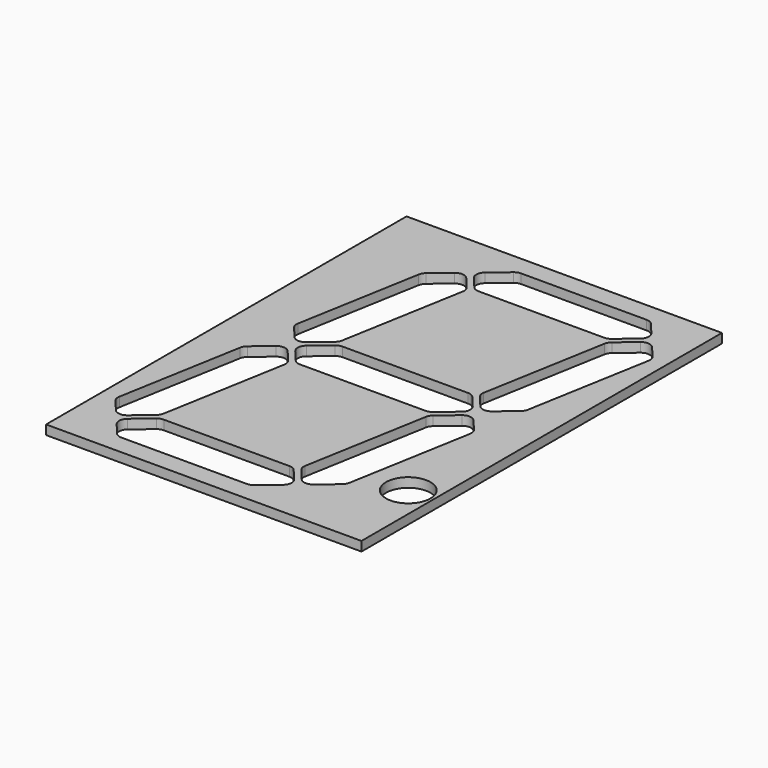
from build123d import *

# Parameters (mm, degrees)
F0_W     = 106.68
F0_H     = 152.4
F1_DEPTH = 3.175
F2_R     = 7.5
F3_DEPTH = 3.176


with BuildPart() as f1:
    # F0 (on Top) → F1 (new body)
    with BuildSketch(Plane.XY):
        Rectangle(F0_W, F0_H)
    extrude(amount=F1_DEPTH)

    # F2 (on face) → F3 (cut, through all)
    with BuildSketch(Plane.XY.offset(3.175)):
        with BuildLine():
            Line((-32.719586, -55.33588), (-38.523153, -60.20565))
            ThreePointArc((-38.523153, -60.20565), (-39.583374, -62.242316), (-38.892923, -64.432146))
            Line((-38.892923, -64.432146), (-35.427249, -68.562376))
            ThreePointArc((-35.427249, -68.562376), (-34.396971, -69.352936), (-33.129116, -69.634013))
            Line((-33.129116, -69.634013), (9.380051, -69.634013))
            ThreePointArc((9.380051, -69.634013), (10.406111, -69.453091), (11.308413, -68.932146))
            Line((11.308413, -68.932146), (17.11198, -64.062376))
            ThreePointArc((17.11198, -64.062376), (18.172201, -62.02571), (17.48175, -59.83588))
            Line((17.48175, -59.83588), (14.016076, -55.70565))
            ThreePointArc((14.016076, -55.70565), (12.985798, -54.91509), (11.717943, -54.634013))
            Line((11.717943, -54.634013), (-30.791223, -54.634013))
            ThreePointArc((-30.791223, -54.634013), (-31.817284, -54.814935), (-32.719586, -55.33588))
        make_face()
        with BuildLine():
            ThreePointArc((-44.035224, -58.303791), (-41.998558, -59.364012), (-39.808728, -58.673561))
            Line((-39.808728, -58.673561), (-34.005161, -53.803791))
            ThreePointArc((-34.005161, -53.803791), (-33.335448, -53.005657), (-32.979101, -52.026602))
            Line((-32.979101, -52.026602), (-25.597462, -10.163245))
            ThreePointArc((-25.597462, -10.163245), (-25.654107, -8.865844), (-26.253752, -7.713938))
            Line((-26.253752, -7.713938), (-29.719426, -3.583709))
            ThreePointArc((-29.719426, -3.583709), (-31.756092, -2.523487), (-33.945922, -3.213938))
            Line((-33.945922, -3.213938), (-39.749488, -8.083709))
            ThreePointArc((-39.749488, -8.083709), (-40.419202, -8.881842), (-40.775549, -9.860897))
            Line((-40.775549, -9.860897), (-48.157188, -51.724254))
            ThreePointArc((-48.157188, -51.724254), (-48.100542, -53.021656), (-47.500898, -54.173561))
            Line((-47.500898, -54.173561), (-44.035224, -58.303791))
        make_face()
        with BuildLine():
            ThreePointArc((14.891875, -51.970768), (14.948521, -53.268169), (15.548165, -54.420075))
            Line((15.548165, -54.420075), (19.013839, -58.550304))
            ThreePointArc((19.013839, -58.550304), (21.050505, -59.610526), (23.240335, -58.920075))
            Line((23.240335, -58.920075), (29.043902, -54.050304))
            ThreePointArc((29.043902, -54.050304), (29.713615, -53.252171), (30.069962, -52.273116))
            Line((30.069962, -52.273116), (37.451602, -10.409759))
            ThreePointArc((37.451602, -10.409759), (37.394956, -9.112357), (36.795312, -7.960452))
            Line((36.795312, -7.960452), (33.329638, -3.830222))
            ThreePointArc((33.329638, -3.830222), (31.292972, -2.770001), (29.103141, -3.460452))
            Line((29.103141, -3.460452), (23.299575, -8.330222))
            ThreePointArc((23.299575, -8.330222), (22.629862, -9.128356), (22.273515, -10.107411))
            Line((22.273515, -10.107411), (14.891875, -51.970768))
        make_face()
        with BuildLine():
            ThreePointArc((-27.817566, 1.928363), (-28.877788, -0.108303), (-28.187337, -2.298133))
            Line((-28.187337, -2.298133), (-24.721663, -6.428363))
            ThreePointArc((-24.721663, -6.428363), (-23.691384, -7.218923), (-22.423529, -7.5))
            Line((-22.423529, -7.5), (20.085637, -7.5))
            ThreePointArc((20.085637, -7.5), (21.111697, -7.319078), (22.014, -6.798133))
            Line((22.014, -6.798133), (27.817566, -1.928363))
            ThreePointArc((27.817566, -1.928363), (28.877788, 0.108303), (28.187337, 2.298133))
            Line((28.187337, 2.298133), (24.721663, 6.428363))
            ThreePointArc((24.721663, 6.428363), (23.691384, 7.218923), (22.423529, 7.5))
            Line((22.423529, 7.5), (-20.085637, 7.5))
            ThreePointArc((-20.085637, 7.5), (-21.111697, 7.319078), (-22.014, 6.798133))
            Line((-22.014, 6.798133), (-27.817566, 1.928363))
        make_face()
        with BuildLine():
            ThreePointArc((-33.329638, 3.830222), (-31.292972, 2.770001), (-29.103141, 3.460452))
            Line((-29.103141, 3.460452), (-23.299575, 8.330222))
            ThreePointArc((-23.299575, 8.330222), (-22.629862, 9.128356), (-22.273515, 10.107411))
            Line((-22.273515, 10.107411), (-14.891875, 51.970768))
            ThreePointArc((-14.891875, 51.970768), (-14.948521, 53.268169), (-15.548165, 54.420075))
            Line((-15.548165, 54.420075), (-19.013839, 58.550304))
            ThreePointArc((-19.013839, 58.550304), (-21.050505, 59.610526), (-23.240335, 58.920075))
            Line((-23.240335, 58.920075), (-29.043902, 54.050304))
            ThreePointArc((-29.043902, 54.050304), (-29.713615, 53.252171), (-30.069962, 52.273116))
            Line((-30.069962, 52.273116), (-37.451602, 10.409759))
            ThreePointArc((-37.451602, 10.409759), (-37.394956, 9.112357), (-36.795312, 7.960452))
            Line((-36.795312, 7.960452), (-33.329638, 3.830222))
        make_face()
        with BuildLine():
            ThreePointArc((25.597462, 10.163245), (25.654107, 8.865844), (26.253752, 7.713938))
            Line((26.253752, 7.713938), (29.719426, 3.583709))
            ThreePointArc((29.719426, 3.583709), (31.756092, 2.523487), (33.945922, 3.213938))
            Line((33.945922, 3.213938), (39.749488, 8.083709))
            ThreePointArc((39.749488, 8.083709), (40.419202, 8.881842), (40.775549, 9.860897))
            Line((40.775549, 9.860897), (48.157188, 51.724254))
            ThreePointArc((48.157188, 51.724254), (48.100542, 53.021656), (47.500898, 54.173561))
            Line((47.500898, 54.173561), (44.035224, 58.303791))
            ThreePointArc((44.035224, 58.303791), (41.998558, 59.364012), (39.808728, 58.673561))
            Line((39.808728, 58.673561), (34.005161, 53.803791))
            ThreePointArc((34.005161, 53.803791), (33.335448, 53.005657), (32.979101, 52.026602))
            Line((32.979101, 52.026602), (25.597462, 10.163245))
        make_face()
        with BuildLine():
            ThreePointArc((-17.11198, 64.062376), (-18.172201, 62.02571), (-17.48175, 59.83588))
            Line((-17.48175, 59.83588), (-14.016076, 55.70565))
            ThreePointArc((-14.016076, 55.70565), (-12.985798, 54.91509), (-11.717943, 54.634013))
            Line((-11.717943, 54.634013), (30.791223, 54.634013))
            ThreePointArc((30.791223, 54.634013), (31.817284, 54.814935), (32.719586, 55.33588))
            Line((32.719586, 55.33588), (38.523153, 60.20565))
            ThreePointArc((38.523153, 60.20565), (39.583374, 62.242316), (38.892923, 64.432146))
            Line((38.892923, 64.432146), (35.427249, 68.562376))
            ThreePointArc((35.427249, 68.562376), (34.396971, 69.352936), (33.129116, 69.634013))
            Line((33.129116, 69.634013), (-9.380051, 69.634013))
            ThreePointArc((-9.380051, 69.634013), (-10.406111, 69.453091), (-11.308413, 68.932146))
            Line((-11.308413, 68.932146), (-17.11198, 64.062376))
        make_face()
        with Locations((44.880354, -45.848438)):
            Circle(F2_R)
    extrude(amount=-F3_DEPTH, mode=Mode.SUBTRACT)


solid = f1.part
